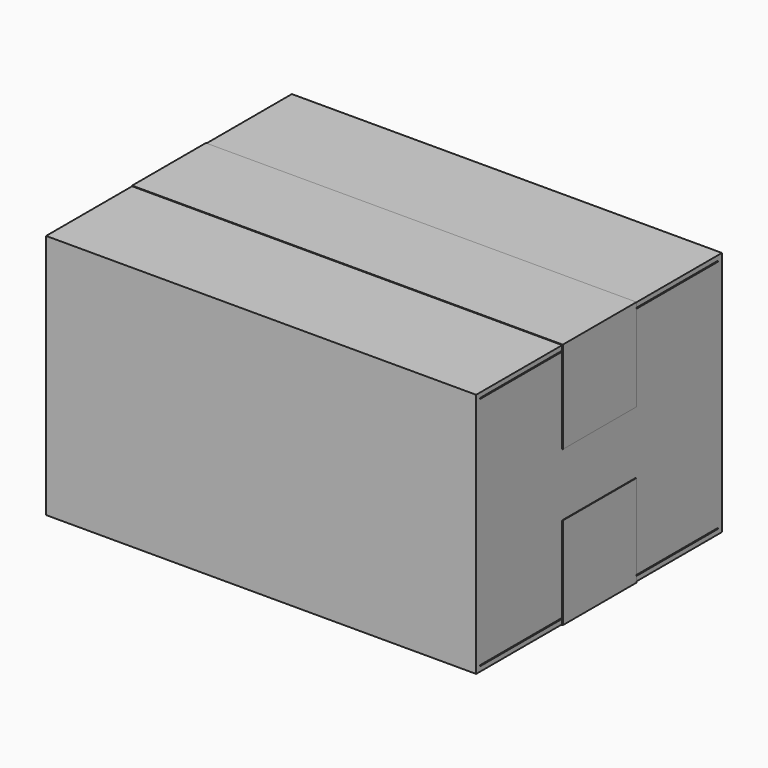
from build123d import *

# Parameters (mm, degrees)
F0_W      = 355.6
F0_H      = 254
F1_DEPTH  = 203.2
F2_W      = 355.6
F2_H      = 0.79375
F3_DEPTH  = 3.9624
F4_W      = 355.6
F4_H      = 0.79375
F5_DEPTH  = 3.9624
F6_W      = 355.6
F6_H      = 76.2
F7_DEPTH  = 0.508
F8_W      = 76.2
F8_H      = 76.2
F9_DEPTH  = 0.508
F10_W     = 76.2
F10_H     = 75.692
F11_DEPTH = 0.508
F14_W     = 246.0752
F14_H     = 0.79375
F15_DEPTH = 356.109


with BuildPart() as f1:
    # F0 (on Top) → F1 (new body)
    with BuildSketch(Plane.XY):
        Rectangle(F0_W, F0_H)
    extrude(amount=F1_DEPTH)

    # F2 (on face) → F3 (cut)
    with BuildSketch(Plane.XY.offset(203.2)):
        Rectangle(F2_W, F2_H)
    extrude(amount=-F3_DEPTH, mode=Mode.SUBTRACT)

    # F4 (on face) → F5 (cut)
    with BuildSketch(Plane(origin=(0, 0, 0), x_dir=(1, 0, 0), z_dir=(0, 0, -1))):
        Rectangle(F4_W, F4_H)
    extrude(amount=-F5_DEPTH, mode=Mode.SUBTRACT)

    # F14 (on face) → F15 (cut, through all)
    with BuildSketch(Plane.YZ.offset(177.8)):
        with Locations((0, 198.840725)):
            Rectangle(F14_W, F14_H)
        with Locations((0, 4.359275)):
            Rectangle(F14_W, F14_H)
    extrude(amount=-F15_DEPTH, mode=Mode.SUBTRACT)


with BuildPart() as f7:
    # F6 (on face) → F7 (new body)
    with BuildSketch(Plane.XY.offset(203.2)):
        Rectangle(F6_W, F6_H)
    extrude(amount=F7_DEPTH)


with BuildPart() as f9:
    # F8 (on face) → F9 (new body)
    with BuildSketch(Plane.YZ.offset(177.8)):
        with Locations((0, 165.608)):
            Rectangle(F8_W, F8_H)
    extrude(amount=F9_DEPTH)


with BuildPart() as f11:
    # F10 (on face) → F11 (new body)
    with BuildSketch(Plane(origin=(-177.8, 0, 0), x_dir=(0, -1, 0), z_dir=(-1, 0, 0))):
        with Locations((0, 165.354)):
            Rectangle(F10_W, F10_H)
    extrude(amount=F11_DEPTH)


with BuildPart() as f13_1:
    # F13: instance of F11
    add(f11.part.mirror(Plane.XY.offset(101.6)))


with BuildPart() as f13_2:
    # F13: instance of F9
    add(f9.part.mirror(Plane.XY.offset(101.6)))


with BuildPart() as f13_3:
    # F13: instance of F7
    add(f7.part.mirror(Plane.XY.offset(101.6)))


solid = Compound([f1.part, f7.part, f9.part, f11.part, f13_1.part, f13_2.part, f13_3.part])
